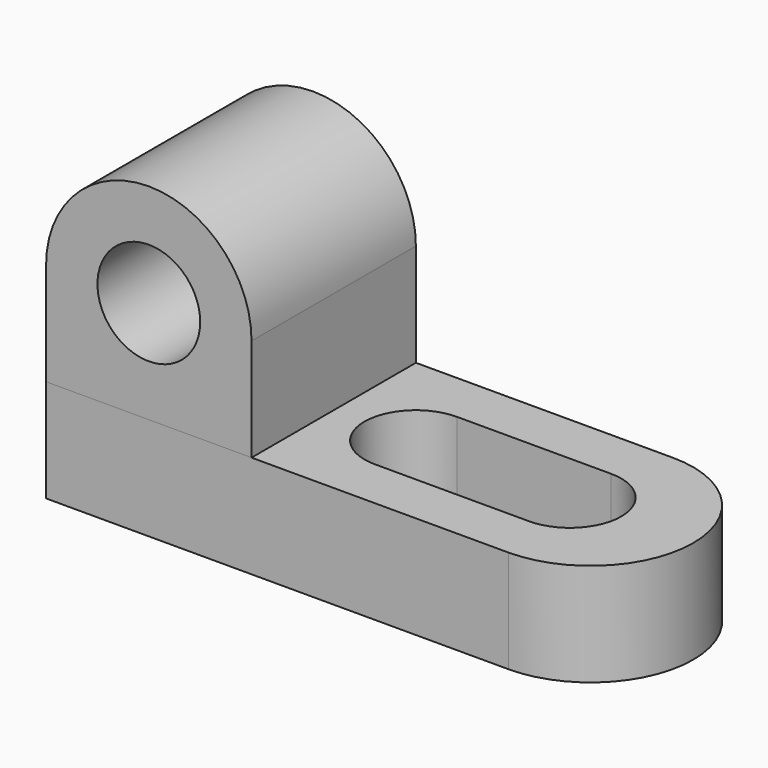
from build123d import *

# Parameters (mm, degrees)
F0_W     = 57.15
F0_H     = 25.4
F1_DEPTH = 12.7
F2_DEPTH = 12.7
F3_W     = 25.4
F3_H     = 12.7
F4_DEPTH = 25.4
F5_R     = 6.35
F6_DEPTH = 25.4
F7_W     = 19.05
F7_H     = 12.7
F8_DEPTH = 25.4


with BuildPart() as f1:
    # F0 (on Top) → F1 (new body)
    with BuildSketch(Plane.XY):
        with Locations((28.575, 12.7)):
            Rectangle(F0_W, F0_H)
    extrude(amount=F1_DEPTH)

    # F0 (on Top) → F2 (join)
    with BuildSketch(Plane.XY):
        with Locations((28.575, 12.7)):
            Rectangle(F0_W, F0_H)
        with BuildLine():
            Line((57.15, 25.4), (57.15, 0))
            ThreePointArc((57.15, 0), (69.85, 12.7), (57.15, 25.4))
        make_face()
    extrude(amount=F2_DEPTH)

    # F7 (on face) → F8 (cut)
    with BuildSketch(Plane.XY.offset(12.7)):
        with BuildLine():
            ThreePointArc((54.606163, 6.35), (60.956163, 12.7), (54.606163, 19.05))
            Line((54.606163, 19.05), (54.606163, 6.35))
        make_face()
        with Locations((45.081163, 12.7)):
            Rectangle(F7_W, F7_H)
        with BuildLine():
            Line((35.556163, 6.35), (35.556163, 19.05))
            ThreePointArc((35.556163, 19.05), (29.206163, 12.7), (35.556163, 6.35))
        make_face()
    extrude(amount=-F8_DEPTH, mode=Mode.SUBTRACT)


with BuildPart() as f4:
    # F3 (on face) → F4 (new body)
    with BuildSketch(Plane.XZ):
        with Locations((12.7, 19.05)):
            Rectangle(F3_W, F3_H)
        with BuildLine():
            ThreePointArc((25.4, 25.4), (12.7, 38.1), (0, 25.4))
            Line((0, 25.4), (25.4, 25.4))
        make_face()
    extrude(amount=-F4_DEPTH)

    # F5 (on face) → F6 (cut)
    with BuildSketch(Plane.XZ):
        with Locations((12.7, 25.4)):
            Circle(F5_R)
    extrude(amount=-F6_DEPTH, mode=Mode.SUBTRACT)


solid = Compound([f1.part, f4.part])
